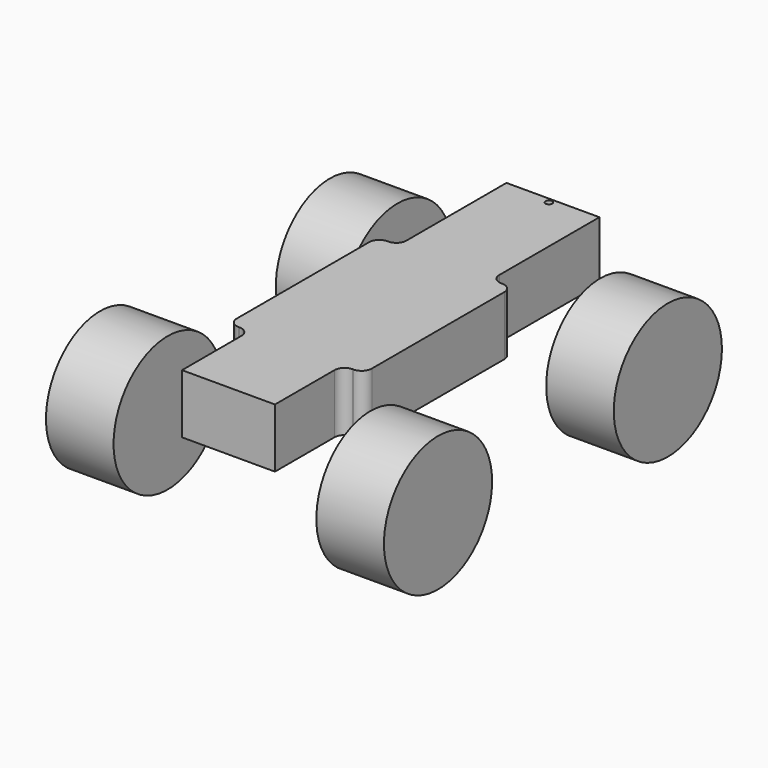
from build123d import *

# Parameters (mm, degrees)
F0_W     = 55
F0_H     = 80
F0_R     = 2
F1_DEPTH = 35
F2_R     = 6
F4_START = 60
F3_R     = 40
F4_DEPTH = 40


with BuildPart() as f1:
    # F0 (on Top) → F1 (new body)
    with BuildSketch(Plane.XY):
        with Locations((0, 95)):
            Rectangle(F0_W, F0_H)
        with Locations((0, 132)):
            Circle(F0_R, mode=Mode.SUBTRACT)
        Polygon((40, -55), (40, 55), (27.5, 55), (-27.5, 55), (-40, 55), (-40, -55), (-27.5, -55), (27.5, -55), align=None)
        Polygon((27.5, -98), (27.5, -55), (-27.5, -55), (-27.5, -98), (-27.5, -105), (27.5, -105), align=None)
    extrude(amount=F1_DEPTH)

    # F2
    f2_edges = [f1.edges().sort_by_distance(p)[0] for p in [
        (27.5, -55, 17.5),
        (40, -55, 17.5),
        (-40, -55, 17.5),
        (-27.5, -55, 17.5),
        (-40, 55, 17.5),
        (-27.5, 55, 17.5),
        (40, 55, 17.5),
        (27.5, 55, 17.5),
    ]]
    fillet(f2_edges, radius=F2_R)


with BuildPart() as f4:
    # F3 (on Right) → F4 (new body)
    with BuildSketch(Plane.YZ.offset(F4_START)):
        with Locations((-75, -10)):
            Circle(F3_R)
    extrude(amount=F4_DEPTH)


with BuildPart() as f4b:
    # F3 (on Right) → F4, piece 2 (new body)
    with BuildSketch(Plane.YZ.offset(F4_START)):
        with Locations((95, -10)):
            Circle(F3_R)
    extrude(amount=F4_DEPTH)


with BuildPart() as f5_1:
    # F5: instance of F4
    add(f4.part.mirror(Plane.YZ))


with BuildPart() as f5_2:
    # F5: instance of F4b
    add(f4b.part.mirror(Plane.YZ))


solid = Compound([f1.part, f4.part, f4b.part, f5_1.part, f5_2.part])
